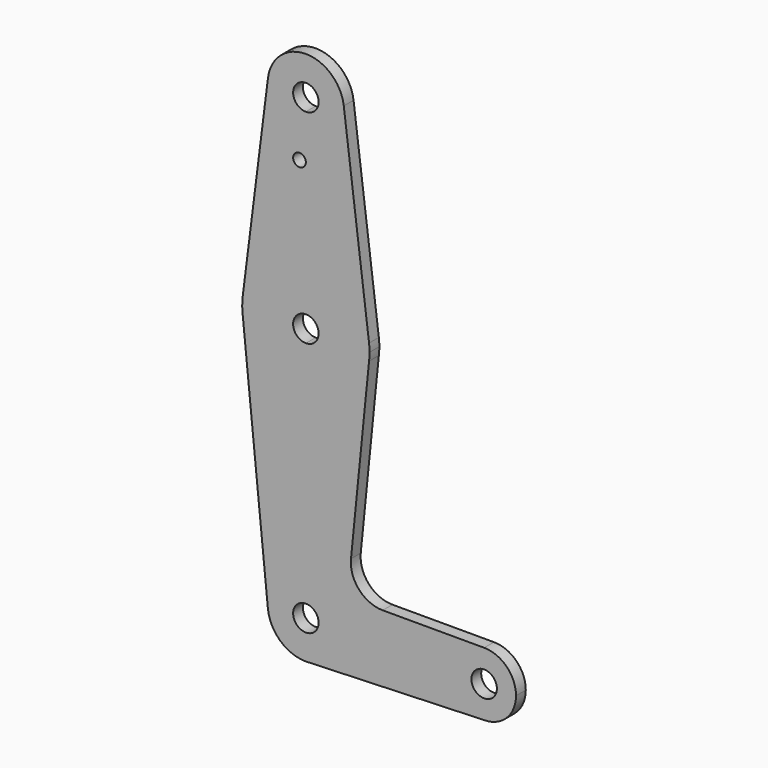
from build123d import *

# Parameters (mm, degrees)
F0_R     = 1.5875
F0_R_2   = 3.175
F1_DEPTH = 3.048


with BuildPart() as f1:
    # F0 (on Front) → F1 (new body)
    with BuildSketch(Plane.XZ):
        with BuildLine():
            ThreePointArc((3.175, 85.95305), (-2.245064, 88.198114), (0, 82.77805))
            ThreePointArc((0, 82.77805), (2.245064, 83.707986), (3.175, 85.95305))
        make_face()
        with BuildLine():
            ThreePointArc((0, 76.42805), (6.735192, 79.217858), (9.525, 85.95305))
            ThreePointArc((9.525, 85.95305), (9.506305, 86.549533), (9.450293, 87.143675))
            ThreePointArc((9.450293, 87.143675), (0, 95.47805), (-9.450293, 87.143675))
            ThreePointArc((-9.450293, 87.143675), (-7.14375, 79.652855), (0, 76.42805))
        make_face()
        with BuildLine():
            ThreePointArc((3.175, 85.95305), (2.245064, 83.707986), (0, 82.77805))
            ThreePointArc((0, 82.77805), (-2.245064, 88.198114), (3.175, 85.95305))
        make_face(mode=Mode.SUBTRACT)
        with BuildLine():
            ThreePointArc((9.450293, 87.143675), (9.506305, 86.549533), (9.525, 85.95305))
            ThreePointArc((9.525, 85.95305), (6.735192, 79.217858), (0, 76.42805))
            Line((0, 76.42805), (0, 71.67825))
            Line((0, 71.67825), (0, 51.02805))
            ThreePointArc((0, 51.02805), (10.500326, 47.0593), (15.750488, 37.137425))
            Line((15.750488, 37.137425), (9.450293, 87.143675))
        make_face()
        with BuildLine():
            Line((0, 71.67825), (0, 76.42805))
            ThreePointArc((0, 76.42805), (-7.14375, 79.652855), (-9.450293, 87.143675))
            Line((-9.450293, 87.143675), (-15.750488, 37.137425))
            ThreePointArc((-15.750488, 37.137425), (-10.500326, 47.0593), (0, 51.02805))
            Line((0, 51.02805), (0, 71.67825))
        make_face()
        with Locations((-1.5875, 71.67825)):
            Circle(F0_R, mode=Mode.SUBTRACT)
        with BuildLine():
            ThreePointArc((15.875, 35.15305), (15.843841, 36.147189), (15.750488, 37.137425))
            ThreePointArc((15.750488, 37.137425), (10.500326, 47.0593), (0, 51.02805))
            Line((0, 51.02805), (0, 38.32805))
            ThreePointArc((0, 38.32805), (2.245064, 37.398114), (3.175, 35.15305))
            ThreePointArc((3.175, 35.15305), (2.245064, 32.907986), (0, 31.97805))
            Line((0, 31.97805), (0, 19.27805))
            ThreePointArc((0, 19.27805), (10.500326, 23.2468), (15.750488, 33.168675))
            ThreePointArc((15.750488, 33.168675), (15.843841, 34.158911), (15.875, 35.15305))
        make_face()
        with BuildLine():
            ThreePointArc((0, 51.02805), (-10.500326, 47.0593), (-15.750488, 37.137425))
            ThreePointArc((-15.750488, 37.137425), (-15.873744, 35.352756), (-15.795426, 33.56555))
            ThreePointArc((-15.795426, 33.56555), (-10.649274, 23.379835), (0, 19.27805))
            Line((0, 19.27805), (0, 31.97805))
            ThreePointArc((0, 31.97805), (-3.175, 35.15305), (0, 38.32805))
            Line((0, 38.32805), (0, 51.02805))
        make_face()
        with BuildLine():
            ThreePointArc((0, 19.27805), (-10.649274, 23.379835), (-15.795426, 33.56555))
            Line((-15.795426, 33.56555), (-9.477255, -29.29945))
            ThreePointArc((-9.477255, -29.29945), (-7.063929, -21.957386), (0, -18.82195))
            Line((0, -18.82195), (0, 19.27805))
        make_face()
        with BuildLine():
            Line((11.244899, -11.664281), (15.750488, 33.168675))
            ThreePointArc((15.750488, 33.168675), (10.500326, 23.2468), (0, 19.27805))
            Line((0, 19.27805), (0, -18.82195))
            ThreePointArc((0, -18.82195), (6.735192, -21.611758), (9.525, -28.34695))
            ThreePointArc((9.525, -28.34695), (6.97129, -34.837461), (0.67949, -37.847682))
            Line((0.67949, -37.847682), (44.45, -36.28445))
            ThreePointArc((44.45, -36.28445), (36.5125, -28.34695), (44.45, -20.40945))
            Line((44.45, -20.40945), (19.155254, -20.40945))
            ThreePointArc((19.155254, -20.40945), (13.259245, -17.792425), (11.244899, -11.664281))
        make_face()
        with BuildLine():
            ThreePointArc((0, -18.82195), (-7.063929, -21.957386), (-9.477255, -29.29945))
            ThreePointArc((-9.477255, -29.29945), (-6.389564, -35.410879), (0, -37.87195))
            Line((0, -37.87195), (0.67949, -37.847682))
            ThreePointArc((0.67949, -37.847682), (6.97129, -34.837461), (9.525, -28.34695))
            ThreePointArc((9.525, -28.34695), (6.735192, -21.611758), (0, -18.82195))
        make_face()
        with Locations((0, -28.34695)):
            Circle(F0_R_2, mode=Mode.SUBTRACT)
        with BuildLine():
            Line((0.67949, -37.847682), (0, -37.87195))
            ThreePointArc((0, -37.87195), (0.339962, -37.865881), (0.67949, -37.847682))
        make_face()
        with BuildLine():
            ThreePointArc((52.3875, -28.34695), (50.06266, -22.73429), (44.45, -20.40945))
            ThreePointArc((44.45, -20.40945), (36.5125, -28.34695), (44.45, -36.28445))
            ThreePointArc((44.45, -36.28445), (50.06266, -33.95961), (52.3875, -28.34695))
        make_face()
        with Locations((44.45, -28.34695)):
            Circle(F0_R_2, mode=Mode.SUBTRACT)
    extrude(amount=F1_DEPTH)


solid = f1.part
